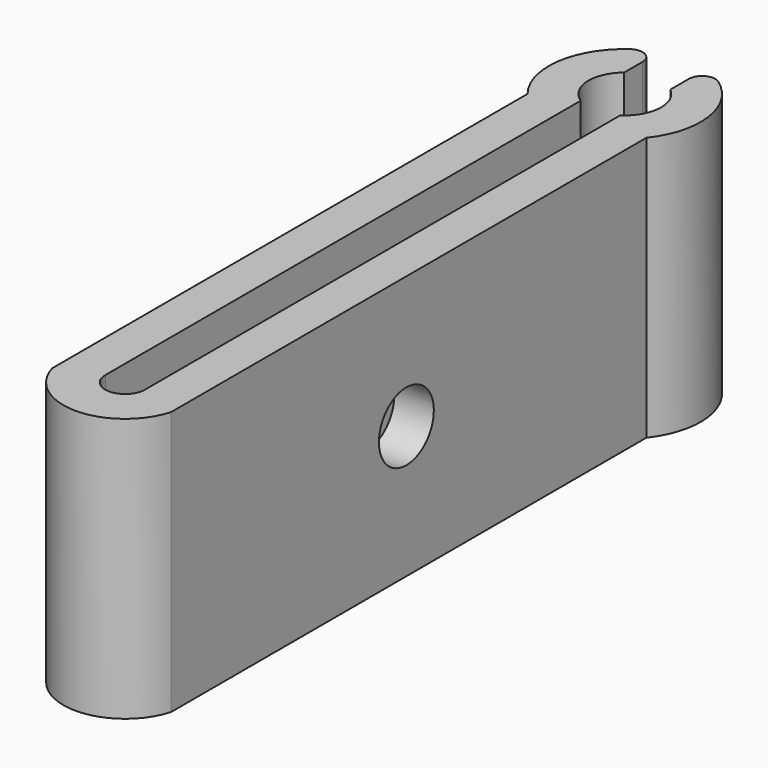
from build123d import *

# Parameters (mm, degrees)
PAD_DEPTH    = 20
SKETCH001_R  = 2.6
POCKET_DEPTH = 10.251
FILLET_R     = 1


with BuildPart() as part:
    # Sketch → Pad (new body)
    with BuildSketch(Plane.XY):
        with BuildLine():
            ThreePointArc((-1.5, 1.5), (0, 0), (1.5, 1.5))
            Line((1.5, 1.5), (1.5, 46.5))
            ThreePointArc((1.5, 46.5), (2.745624, 48.649808), (1.75, 50.926206))
            Line((1.75, 50.926206), (1.75, 54.282112))
            ThreePointArc((4.5, 45.225431), (5.501953, 50.475517), (1.75, 54.282112))
            Line((4.5, 45.225431), (4.5, 0.225431))
            ThreePointArc((-4.5, 0.225431), (0, -3.177021), (4.5, 0.225431))
            Line((-4.5, 0.225431), (-4.5, 45.225431))
            ThreePointArc((-1.75, 54.282112), (-5.501953, 50.475517), (-4.5, 45.225431))
            Line((-1.75, 54.282112), (-1.75, 50.926206))
            ThreePointArc((-1.75, 50.926206), (-2.745624, 48.649808), (-1.5, 46.5))
            Line((-1.5, 1.5), (-1.5, 46.5))
        make_face()
    extrude(amount=PAD_DEPTH)

    # Sketch001 (on Face6 of Pad) → Pocket (cut, through all)
    with BuildSketch(Plane.YZ.offset(4.5)):
        with Locations((22.5, 10)):
            Circle(SKETCH001_R)
    extrude(amount=-POCKET_DEPTH, mode=Mode.SUBTRACT)

    # Fillet
    fillet_edges = [part.edges().sort_by_distance(p)[0] for p in [
        (-1.75, 54.282112, 10),
        (1.75, 54.282112, 10),
    ]]
    fillet(fillet_edges, radius=FILLET_R)


solid = part.part
